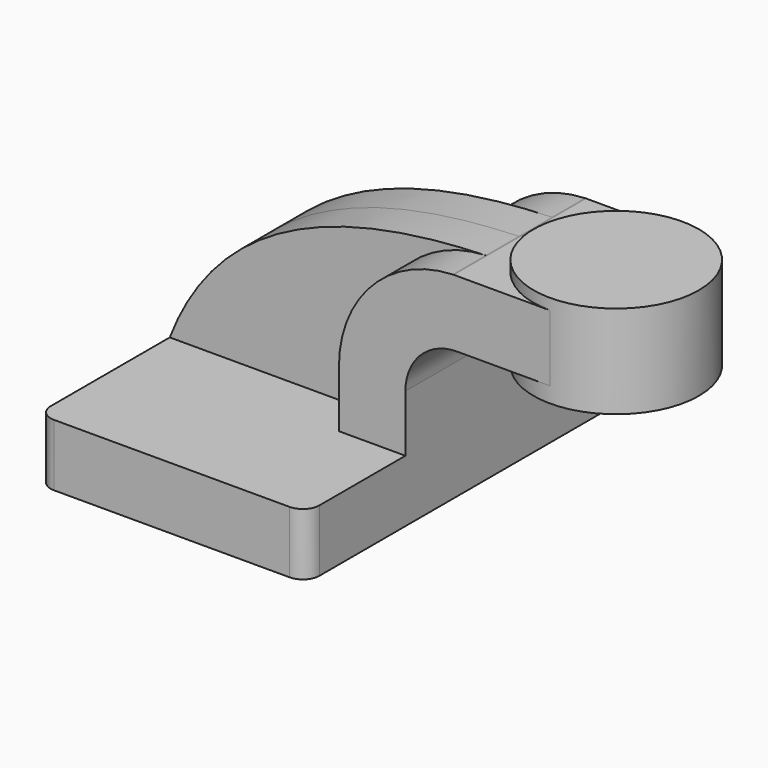
from build123d import *

# Parameters (mm, degrees)
F1_DEPTH = 63.5
F2_DEPTH = 25.4
F3_DEPTH = 12.7
F5_R     = 5.08


with BuildPart() as f1:
    # F0 (on Front) → F1 (new body, symmetric)
    with BuildSketch(Plane.XZ):
        Polygon((41.275, -9.525), (41.275, 9.525), (20.8620596677, 9.525), (-41.275, 9.525), (-41.275, -9.525), align=None)
    extrude(amount=F1_DEPTH, both=True)

    # F0 (on Front) → F2 (join, symmetric)
    with BuildSketch(Plane.XZ):
        with BuildLine():
            Line((20.8620596677, 9.525), (41.275, 9.525))
            Line((41.275, 9.525), (41.275, 27.0139881611))
            ThreePointArc((41.275, 27.0139881611), (46.1610443741, 38.4707974574), (57.8115013232, 42.8752))
            Line((57.8115013232, 42.8752), (60.325, 42.8752))
            Line((60.325, 42.8752), (60.325, 63.2881403323))
            Line((60.325, 63.2881403323), (56.1497511215, 63.2881403323))
            add(Edge.make_bspline(
                [(55.8418284891, 63.2783411935), (55.9444554247, 63.281668613), (56.0470964076, 63.2849348987), (56.1497511215, 63.2881403323)],
                knots=[111.0026419847, 111.0026419847, 111.0026419847, 111.0026419847, 111.2746933919, 111.2746933919, 111.2746933919, 111.2746933919], degree=3))
            ThreePointArc((55.8418284891, 63.2783411935), (31.03213769, 52.206683172), (20.8620596677, 27.0139881611))
            Line((20.8620596677, 27.0139881611), (20.8620596677, 9.525))
        make_face()
        Polygon((60.325, 63.2881403323), (60.325, 42.8752), (85.725, 42.8752), (85.725, 52.3875), (85.725, 63.2881403323), align=None)
    extrude(amount=F2_DEPTH, both=True)

    # F0 (on Front) → F3 (join, symmetric)
    with BuildSketch(Plane.XZ):
        with BuildLine():
            Line((-41.275, 9.525), (20.8620596677, 9.525))
            Line((20.8620596677, 9.525), (20.8620596677, 27.0139881611))
            ThreePointArc((20.8620596677, 27.0139881611), (31.03213769, 52.206683172), (55.8418284891, 63.2783411935))
            add(Edge.make_bspline(
                [(-41.275, 9.525), (-25.5674248784, 50.3853946243), (13.9679006475, 61.920684693), (55.8418284891, 63.2783411935)],
                knots=[0, 0, 0, 0, 111.0026419847, 111.0026419847, 111.0026419847, 111.0026419847], degree=3))
        make_face()
    extrude(amount=F3_DEPTH, both=True)

    # F0 (on Front) → F4 (revolve)
    with BuildSketch(Plane.XZ):
        Polygon((85.725, 52.3875), (85.725, 42.8752), (85.725, 38.1), (111.125, 38.1), (111.125, 66.675), (85.725, 66.675), (85.725, 63.2881403323), align=None)
    revolve(axis=Axis((85.725, 0, 54.7751), (0, 0, 1)))

    # F5
    f5_edges = [f1.edges().sort_by_distance(p)[0] for p in [
        (41.275, -63.5, 0),
        (-41.275, -63.5, 0),
        (-41.275, 63.5, 0),
        (41.275, 63.5, 0),
    ]]
    fillet(f5_edges, radius=F5_R)


solid = f1.part
